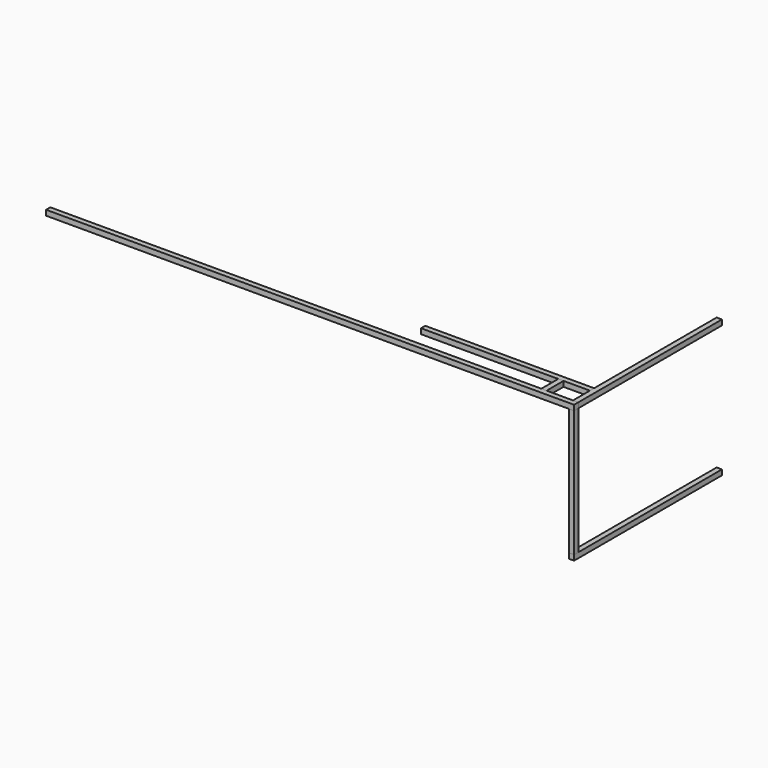
from build123d import *

# Parameters (mm, degrees)
F0_W      = 2000
F0_H      = 20
F1_DEPTH  = 20
F2_W      = 20
F2_H      = 20
F3_DEPTH  = 680
F4_W      = 20
F4_H      = 20
F5_DEPTH  = 480
F6_W      = 20
F6_H      = 20
F7_DEPTH  = 700
F8_W      = 20
F8_H      = 20
F9_DEPTH  = 640
F10_W     = 20
F10_H     = 20
F11_DEPTH = 80


with BuildPart() as f1:
    # F0 (on Front) → F1 (new body)
    with BuildSketch(Plane.XZ):
        with Locations((-1000, -10)):
            Rectangle(F0_W, F0_H)
    extrude(amount=-F1_DEPTH)


with BuildPart() as f3:
    # F2 (on face) → F3 (new body)
    with BuildSketch(Plane(origin=(0, 20, 0), x_dir=(-1, 0, 0), z_dir=(0, 1, 0))):
        with Locations((10, -10)):
            Rectangle(F2_W, F2_H)
    extrude(amount=F3_DEPTH)


with BuildPart() as f5:
    # F4 (on face) → F5 (new body)
    with BuildSketch(Plane(origin=(0, 0, -20), x_dir=(1, 0, 0), z_dir=(0, 0, -1))):
        with Locations((-10, -10)):
            Rectangle(F4_W, F4_H)
    extrude(amount=F5_DEPTH)


with BuildPart() as f7:
    # F6 (on face) → F7 (new body, through all)
    with BuildSketch(Plane.XZ):
        with Locations((-10, -510)):
            Rectangle(F6_W, F6_H)
    extrude(amount=-F7_DEPTH)


with BuildPart() as f9:
    # F8 (on face) → F9 (new body)
    with BuildSketch(Plane(origin=(-20, 0, 0), x_dir=(0, -1, 0), z_dir=(-1, 0, 0))):
        with Locations((-110, -10)):
            Rectangle(F8_W, F8_H)
    extrude(amount=F9_DEPTH)


with BuildPart() as f11:
    # F10 (on face) → F11 (new body, through all)
    with BuildSketch(Plane(origin=(0, 20, 0), x_dir=(-1, 0, 0), z_dir=(0, 1, 0))):
        with Locations((130, -10)):
            Rectangle(F10_W, F10_H)
    extrude(amount=F11_DEPTH)


solid = Compound([f1.part, f3.part, f5.part, f7.part, f9.part, f11.part])
